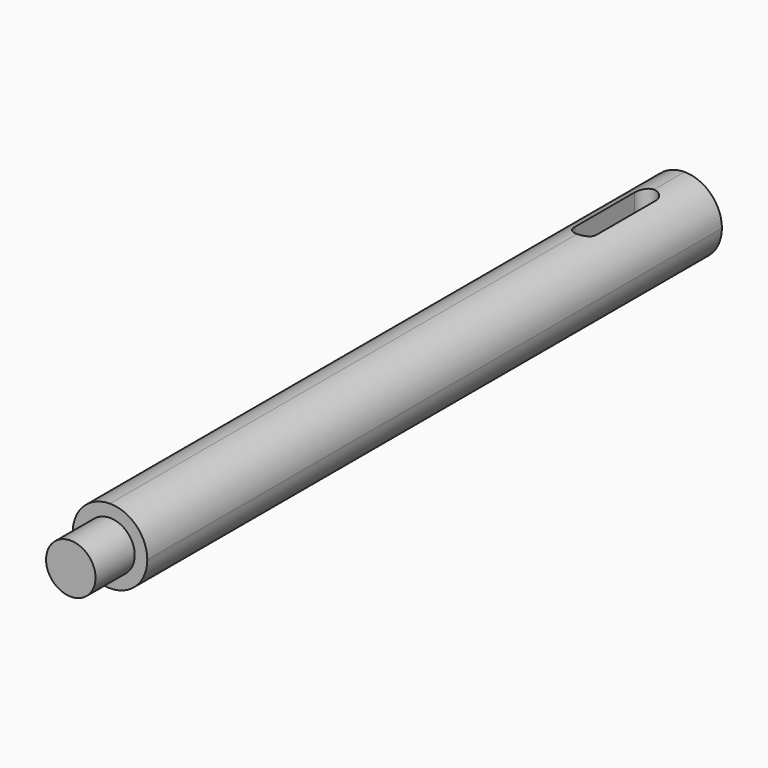
from build123d import *

# Parameters (mm, degrees)
F1_DEPTH = 183
F2_DEPTH = 120
F4_DEPTH = 25
F5_R     = 6.3
F6_DEPTH = 12.5


with BuildPart() as f1:
    # F0 (on Front) → F1 (new body)
    with BuildSketch(Plane.XZ):
        with BuildLine():
            ThreePointArc((0, -9.5), (6.717514, -6.717514), (9.5, 0))
            ThreePointArc((9.5, 0), (6.717514, 6.717514), (0, 9.5))
            Line((0, 9.5), (0, 5))
            ThreePointArc((0, 5), (3.535534, 3.535534), (5, 0))
            ThreePointArc((5, 0), (3.535534, -3.535534), (0, -5))
            Line((0, -5), (0, -9.5))
        make_face()
        with BuildLine():
            ThreePointArc((5, 0), (3.535534, 3.535534), (0, 5))
            Line((0, 5), (0, -5))
            ThreePointArc((0, -5), (3.535534, -3.535534), (5, 0))
        make_face()
        with BuildLine():
            Line((0, -5), (0, 5))
            ThreePointArc((0, 5), (-5, 0), (0, -5))
        make_face()
        with BuildLine():
            Line((0, 5), (0, 9.5))
            ThreePointArc((0, 9.5), (-9.5, 0), (0, -9.5))
            Line((0, -9.5), (0, -5))
            ThreePointArc((0, -5), (-5, 0), (0, 5))
        make_face()
    extrude(amount=F1_DEPTH)

    # F0 (on Front) → F2 (cut)
    with BuildSketch(Plane.XZ):
        with BuildLine():
            ThreePointArc((5, 0), (3.535534, 3.535534), (0, 5))
            Line((0, 5), (0, -5))
            ThreePointArc((0, -5), (3.535534, -3.535534), (5, 0))
        make_face()
        with BuildLine():
            Line((0, -5), (0, 5))
            ThreePointArc((0, 5), (-5, 0), (0, -5))
        make_face()
    extrude(amount=F2_DEPTH, mode=Mode.SUBTRACT)

    # F3 (on Top) → F4 (cut)
    with BuildSketch(Plane.XY):
        with BuildLine():
            Line((2.746924, -31.5), (2.746924, -12.5))
            ThreePointArc((2.746924, -12.5), (-0.003076, -9.75), (-2.753076, -12.5))
            Line((-2.753076, -12.5), (-2.753076, -31.5))
            ThreePointArc((-2.753076, -31.5), (-0.003076, -34.25), (2.746924, -31.5))
        make_face()
    extrude(amount=F4_DEPTH, mode=Mode.SUBTRACT)

    # F5 (on face) → F6 (join)
    with BuildSketch(Plane.XZ.offset(183)):
        Circle(F5_R)
    extrude(amount=F6_DEPTH)


solid = f1.part
